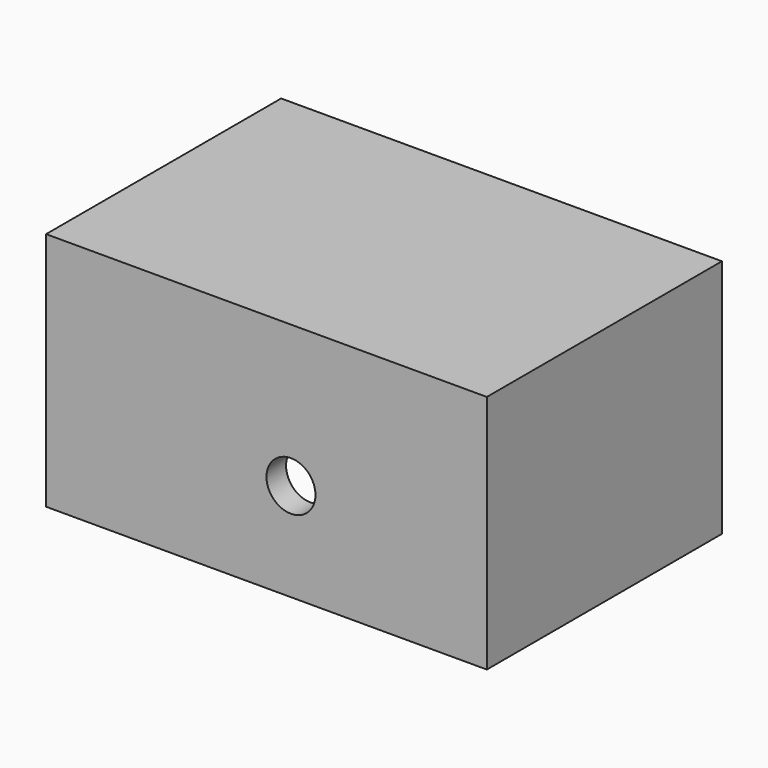
from build123d import *

# Parameters (mm, degrees)
F0_W     = 114.3
F0_H     = 62.237151
F1_DEPTH = 38.1
F2_T     = -6.35
F3_R     = 6.35
F4_DEPTH = 76.201


with BuildPart() as f1:
    # F0 (on Front) → F1 (new body, symmetric)
    with BuildSketch(Plane.XZ):
        with Locations((57.15, 31.118575)):
            Rectangle(F0_W, F0_H)
    extrude(amount=F1_DEPTH, both=True)

    # F2
    f2_openings = [f1.faces().sort_by_distance(p)[0] for p in [
        (57.15, 0, 0),
    ]]
    offset(amount=F2_T, openings=f2_openings)

    # F3 (on face) → F4 (cut, through all)
    with BuildSketch(Plane.XZ.offset(38.1)):
        with Locations((63.5, 25.4)):
            Circle(F3_R)
    extrude(amount=-F4_DEPTH, mode=Mode.SUBTRACT)


solid = f1.part
